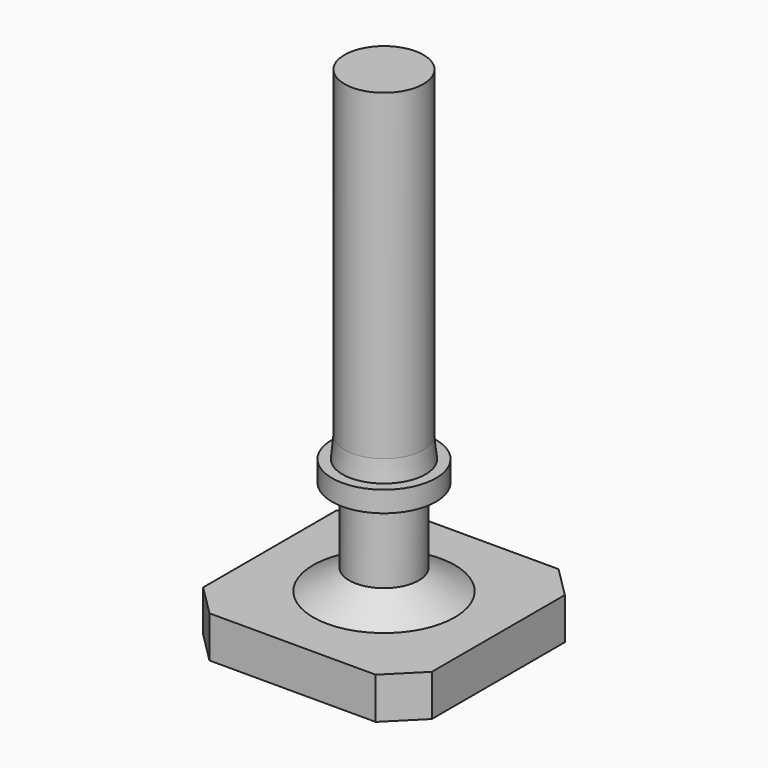
from build123d import *

# Parameters (mm, degrees)
F2_W     = 11
F2_H     = 11
F3_DEPTH = 2
F4_SIZE  = 1.5


with BuildPart() as f1:
    # F0 (on Right) → F1 (revolve)
    with BuildSketch(Plane.YZ):
        Polygon((-1.675, 1), (-3.407051, 0), (0, 0), (0, 22.1), (-1.9, 22.1), (-1.9, 6.6), (-2, 5.6), (-2.5, 5.6), (-2.5, 4.6), (-1.675, 4.6), align=None)
    revolve(axis=Axis((0, 0, 11.05), (0, 0, -1)))

    # F2 (on Top) → F3 (join)
    with BuildSketch(Plane.XY):
        Rectangle(F2_W, F2_H)
    extrude(amount=-F3_DEPTH)

    # F4
    f4_edges = [f1.edges().sort_by_distance(p)[0] for p in [
        (-5.5, 5.5, -1),
        (5.5, 5.5, -1),
        (5.5, -5.5, -1),
        (-5.5, -5.5, -1),
    ]]
    chamfer(f4_edges, length=F4_SIZE)


solid = f1.part
